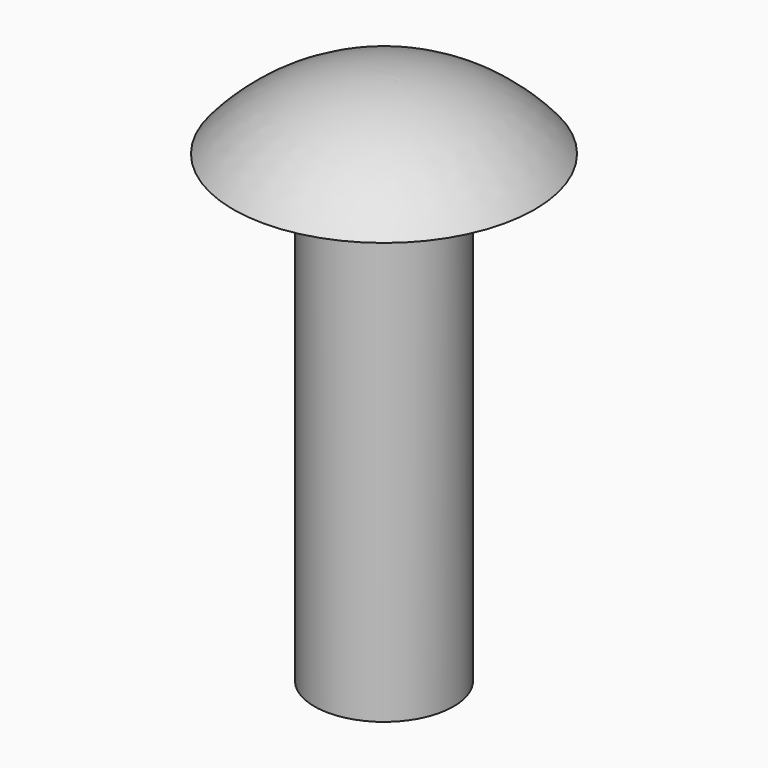
from build123d import *


with BuildPart() as part:
    # Sketch → Revolution (revolve)
    with BuildSketch(Plane.XZ):
        with BuildLine():
            Line((0, 23), (0, 0))
            Line((0, 0), (3, 0))
            Line((3, 0), (3, 20))
            Line((3, 20), (6.5, 20))
            ThreePointArc((6.5, 20), (3.579455, 22.21382), (0, 23))
        make_face()
    revolve(axis=Axis((0, 0, 0), (0, 0, 1)))


solid = part.part
